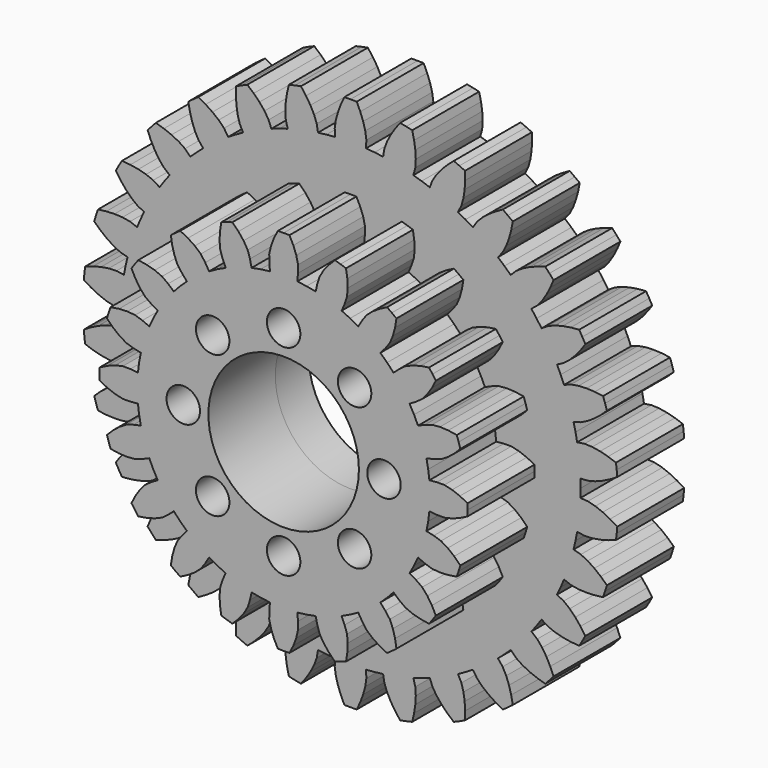
from build123d import *

# Parameters (mm, degrees)
F1_DEPTH = 5
F2_R     = 4.5
F2_R_2   = 1
F3_DEPTH = 5
F5_DEPTH = 5
F6_R     = 1
F6_R_2   = 4.5
F7_DEPTH = 5
F8_R     = 9
F9_DEPTH = 2.5


with BuildPart() as f1:
    # F0 (on Front) → F1 (new body)
    with BuildSketch(Plane.XZ):
        Polygon((8.537735, -1.915615), (8.642273, -1.368802), (8.711826, -0.816447), (9.159863, -0.858436), (9.611526, -0.860858), (10.071783, -0.754446), (10.534056, -0.579793), (10.994513, -0.347382), (11, 0), (10.994513, 0.347382), (10.534056, 0.579793), (10.071783, 0.754446), (9.611526, 0.860858), (9.159863, 0.858436), (8.711826, 0.816447), (8.642273, 1.368802), (8.537735, 1.915615), (8.976819, 2.014132), (9.407124, 2.1514), (9.811972, 2.394831), (10.197649, 2.703786), (10.563751, 3.067111), (10.461622, 3.399187), (10.349057, 3.727872), (9.839317, 3.806619), (9.345698, 3.829873), (8.875084, 3.78885), (8.446276, 3.646975), (8.033143, 3.46859), (7.796307, 3.972417), (7.527911, 4.460163), (7.915061, 4.689543), (8.281887, 4.953064), (8.591696, 5.309685), (8.863024, 5.7227), (9.098934, 6.181375), (8.899187, 6.465638), (8.690562, 6.743451), (8.181436, 6.660826), (7.704791, 6.530405), (7.269888, 6.345962), (6.905909, 6.078522), (6.56812, 5.781203), (6.187184, 6.187184), (5.781203, 6.56812), (6.078522, 6.905909), (6.345962, 7.269888), (6.530405, 7.704791), (6.660826, 8.181436), (6.743451, 8.690562), (6.465638, 8.899187), (6.181375, 9.098934), (5.7227, 8.863024), (5.309685, 8.591696), (4.953064, 8.281887), (4.689543, 7.915061), (4.460163, 7.527911), (3.972417, 7.796307), (3.46859, 8.033143), (3.646975, 8.446276), (3.78885, 8.875084), (3.829873, 9.345698), (3.806619, 9.839317), (3.727872, 10.349057), (3.399187, 10.461622), (3.067111, 10.563751), (2.703786, 10.197649), (2.394831, 9.811972), (2.1514, 9.407124), (2.014132, 8.976819), (1.915615, 8.537735), (1.368802, 8.642273), (0.816447, 8.711826), (0.858436, 9.159863), (0.860858, 9.611526), (0.754446, 10.071783), (0.579793, 10.534056), (0.347382, 10.994513), (0, 11), (-0.347382, 10.994513), (-0.579793, 10.534056), (-0.754446, 10.071783), (-0.860858, 9.611526), (-0.858436, 9.159863), (-0.816447, 8.711826), (-1.368802, 8.642273), (-1.915615, 8.537735), (-2.014132, 8.976819), (-2.1514, 9.407124), (-2.394831, 9.811972), (-2.703786, 10.197649), (-3.067111, 10.563751), (-3.399187, 10.461622), (-3.727872, 10.349057), (-3.806619, 9.839317), (-3.829873, 9.345698), (-3.78885, 8.875084), (-3.646975, 8.446276), (-3.46859, 8.033143), (-3.972417, 7.796307), (-4.460163, 7.527911), (-4.689543, 7.915061), (-4.953064, 8.281887), (-5.309685, 8.591696), (-5.7227, 8.863024), (-6.181375, 9.098934), (-6.465638, 8.899187), (-6.743451, 8.690562), (-6.660826, 8.181436), (-6.530405, 7.704791), (-6.345962, 7.269888), (-6.078522, 6.905909), (-5.781203, 6.56812), (-6.187184, 6.187184), (-6.56812, 5.781203), (-6.905909, 6.078522), (-7.269888, 6.345962), (-7.704791, 6.530405), (-8.181436, 6.660826), (-8.690562, 6.743451), (-8.899187, 6.465638), (-9.098934, 6.181375), (-8.863024, 5.7227), (-8.591696, 5.309685), (-8.281887, 4.953064), (-7.915061, 4.689543), (-7.527911, 4.460163), (-7.796307, 3.972417), (-8.033143, 3.46859), (-8.446276, 3.646975), (-8.875084, 3.78885), (-9.345698, 3.829873), (-9.839317, 3.806619), (-10.349057, 3.727872), (-10.461622, 3.399187), (-10.563751, 3.067111), (-10.197649, 2.703786), (-9.811972, 2.394831), (-9.407124, 2.1514), (-8.976819, 2.014132), (-8.537735, 1.915615), (-8.642273, 1.368802), (-8.711826, 0.816447), (-9.159863, 0.858436), (-9.611526, 0.860858), (-10.071783, 0.754446), (-10.534056, 0.579793), (-10.994513, 0.347382), (-11, 0), (-10.994513, -0.347382), (-10.534056, -0.579793), (-10.071783, -0.754446), (-9.611526, -0.860858), (-9.159863, -0.858436), (-8.711826, -0.816447), (-8.642273, -1.368802), (-8.537735, -1.915615), (-8.976819, -2.014132), (-9.407124, -2.1514), (-9.811972, -2.394831), (-10.197649, -2.703786), (-10.563751, -3.067111), (-10.461622, -3.399187), (-10.349057, -3.727872), (-9.839317, -3.806619), (-9.345698, -3.829873), (-8.875084, -3.78885), (-8.446276, -3.646975), (-8.033143, -3.46859), (-7.796307, -3.972417), (-7.527911, -4.460163), (-7.915061, -4.689543), (-8.281887, -4.953064), (-8.591696, -5.309685), (-8.863024, -5.7227), (-9.098934, -6.181375), (-8.899187, -6.465638), (-8.690562, -6.743451), (-8.181436, -6.660826), (-7.704791, -6.530405), (-7.269888, -6.345962), (-6.905909, -6.078522), (-6.56812, -5.781203), (-6.187184, -6.187184), (-5.781203, -6.56812), (-6.078522, -6.905909), (-6.345962, -7.269888), (-6.530405, -7.704791), (-6.660826, -8.181436), (-6.743451, -8.690562), (-6.465638, -8.899187), (-6.181375, -9.098934), (-5.7227, -8.863024), (-5.309685, -8.591696), (-4.953064, -8.281887), (-4.689543, -7.915061), (-4.460163, -7.527911), (-3.972417, -7.796307), (-3.46859, -8.033143), (-3.646975, -8.446276), (-3.78885, -8.875084), (-3.829873, -9.345698), (-3.806619, -9.839317), (-3.727872, -10.349057), (-3.399187, -10.461622), (-3.067111, -10.563751), (-2.703786, -10.197649), (-2.394831, -9.811972), (-2.1514, -9.407124), (-2.014132, -8.976819), (-1.915615, -8.537735), (-1.368802, -8.642273), (-0.816447, -8.711826), (-0.858436, -9.159863), (-0.860858, -9.611526), (-0.754446, -10.071783), (-0.579793, -10.534056), (-0.347382, -10.994513), (0, -11), (0.347382, -10.994513), (0.579793, -10.534056), (0.754446, -10.071783), (0.860858, -9.611526), (0.858436, -9.159863), (0.816447, -8.711826), (1.368802, -8.642273), (1.915615, -8.537735), (2.014132, -8.976819), (2.1514, -9.407124), (2.394831, -9.811972), (2.703786, -10.197649), (3.067111, -10.563751), (3.399187, -10.461622), (3.727872, -10.349057), (3.806619, -9.839317), (3.829873, -9.345698), (3.78885, -8.875084), (3.646975, -8.446276), (3.46859, -8.033143), (3.972417, -7.796307), (4.460163, -7.527911), (4.689543, -7.915061), (4.953064, -8.281887), (5.309685, -8.591696), (5.7227, -8.863024), (6.181375, -9.098934), (6.465638, -8.899187), (6.743451, -8.690562), (6.660826, -8.181436), (6.530405, -7.704791), (6.345962, -7.269888), (6.078522, -6.905909), (5.781203, -6.56812), (6.187184, -6.187184), (6.56812, -5.781203), (6.905909, -6.078522), (7.269888, -6.345962), (7.704791, -6.530405), (8.181436, -6.660826), (8.690562, -6.743451), (8.899187, -6.465638), (9.098934, -6.181375), (8.863024, -5.7227), (8.591696, -5.309685), (8.281887, -4.953064), (7.915061, -4.689543), (7.527911, -4.460163), (7.796307, -3.972417), (8.033143, -3.46859), (8.446276, -3.646975), (8.875084, -3.78885), (9.345698, -3.829873), (9.839317, -3.806619), (10.349057, -3.727872), (10.461622, -3.399187), (10.563751, -3.067111), (10.197649, -2.703786), (9.811972, -2.394831), (9.407124, -2.1514), (8.976819, -2.014132), align=None)
    extrude(amount=F1_DEPTH)

    # F2 (on face) → F3 (cut, through all)
    with BuildSketch(Plane.XZ.offset(5)):
        Circle(F2_R)
        with Locations((0, 6)):
            Circle(F2_R_2)
        with Locations((-4.242641, 4.242641)):
            Circle(F2_R_2)
        with Locations((-6, 0)):
            Circle(F2_R_2)
        with Locations((-4.242641, -4.242641)):
            Circle(F2_R_2)
        with Locations((0, -6)):
            Circle(F2_R_2)
        with Locations((4.242641, -4.242641)):
            Circle(F2_R_2)
        with Locations((6, 0)):
            Circle(F2_R_2)
        with Locations((4.242641, 4.242641)):
            Circle(F2_R_2)
    extrude(amount=-F3_DEPTH, mode=Mode.SUBTRACT)


with BuildPart() as f5:
    # F4 (on Front) → F5 (new body)
    with BuildSketch(Plane.XZ):
        Polygon((13.740356, -0.514893), (13.75, 0), (13.740356, 0.514893), (14.189718, 0.540269), (14.635375, 0.654449), (15.077295, 0.82776), (15.514741, 1.046573), (15.946662, 1.305364), (15.91235, 1.672455), (15.869589, 2.038659), (15.393301, 2.201993), (14.919921, 2.325075), (14.451624, 2.402718), (13.991967, 2.421746), (13.547149, 2.35314), (13.44953, 2.858786), (13.333044, 3.360422), (13.767311, 3.478671), (14.179489, 3.683013), (14.575719, 3.944417), (14.958112, 4.249399), (15.326789, 4.592336), (15.216904, 4.944272), (15.09894, 5.293583), (14.599101, 5.354321), (14.110474, 5.376292), (13.636268, 5.354875), (13.1827, 5.277918), (12.761866, 5.118328), (12.56125, 5.592629), (12.343014, 6.059084), (12.743206, 6.265039), (13.103892, 6.550612), (13.437114, 6.888684), (13.747741, 7.266506), (14.037061, 7.678601), (13.856406, 8), (13.668394, 8.317151), (13.166849, 8.27264), (12.684333, 8.19254), (12.224942, 8.072997), (11.797285, 7.903421), (11.418828, 7.659822), (11.123984, 8.082047), (10.813535, 8.492936), (11.162161, 8.777594), (11.455592, 9.131918), (11.711243, 9.531883), (11.936529, 9.966032), (12.133847, 10.429274), (11.890317, 10.70609), (11.640474, 10.977221), (11.159144, 10.829405), (10.703825, 10.650734), (10.279327, 10.438292), (9.896273, 10.183505), (9.576733, 9.866544), (9.200546, 10.218241), (8.811453, 10.555605), (9.093277, 10.906526), (9.306627, 11.314115), (9.473534, 11.758493), (9.603632, 12.229994), (9.700325, 12.724138), (9.404564, 12.944272), (9.103809, 13.157532), (8.66373, 12.912873), (8.255508, 12.64344), (7.884457, 12.347382), (7.562746, 12.018522), (7.316088, 11.642051), (6.875, 11.907849), (6.424268, 12.156944), (6.626973, 12.558791), (6.750918, 13.001831), (6.821786, 13.4712), (6.851011, 13.959446), (6.842853, 14.462896), (6.507786, 14.616727), (6.169264, 14.762797), (5.789669, 14.431986), (5.446387, 14.083567), (5.144997, 13.716833), (4.89869, 13.328272), (4.735696, 12.908745), (4.248984, 13.077027), (3.756312, 13.226966), (3.871038, 13.662176), (3.900162, 14.121304), (3.871894, 14.595151), (3.798968, 15.078804), (3.686315, 15.569556), (3.326587, 15.650362), (2.965093, 15.722857), (2.662572, 15.320353), (2.399232, 14.908175), (2.180677, 14.486792), (2.020539, 14.055512), (1.94833, 13.611264), (1.437266, 13.674676), (0.924186, 13.718906), (0.94592, 14.168459), (0.87895, 14.623609), (0.752781, 15.081224), (0.580892, 15.539146), (0.368667, 15.995752), (0, 16), (-0.368667, 15.995752), (-0.580892, 15.539146), (-0.752781, 15.081224), (-0.87895, 14.623609), (-0.94592, 14.168459), (-0.924186, 13.718906), (-1.437266, 13.674676), (-1.94833, 13.611264), (-2.020539, 14.055512), (-2.180677, 14.486792), (-2.399232, 14.908175), (-2.662572, 15.320353), (-2.965093, 15.722857), (-3.326587, 15.650362), (-3.686315, 15.569556), (-3.798968, 15.078804), (-3.871894, 14.595151), (-3.900162, 14.121304), (-3.871038, 13.662176), (-3.756312, 13.226966), (-4.248984, 13.077027), (-4.735696, 12.908745), (-4.89869, 13.328272), (-5.144997, 13.716833), (-5.446387, 14.083567), (-5.789669, 14.431986), (-6.169264, 14.762797), (-6.507786, 14.616727), (-6.842853, 14.462896), (-6.851011, 13.959446), (-6.821786, 13.4712), (-6.750918, 13.001831), (-6.626973, 12.558791), (-6.424268, 12.156944), (-6.875, 11.907849), (-7.316088, 11.642051), (-7.562746, 12.018522), (-7.884457, 12.347382), (-8.255508, 12.64344), (-8.66373, 12.912873), (-9.103809, 13.157532), (-9.404564, 12.944272), (-9.700325, 12.724138), (-9.603632, 12.229994), (-9.473534, 11.758493), (-9.306627, 11.314115), (-9.093277, 10.906526), (-8.811453, 10.555605), (-9.200546, 10.218241), (-9.576733, 9.866544), (-9.896273, 10.183505), (-10.279327, 10.438292), (-10.703825, 10.650734), (-11.159144, 10.829405), (-11.640474, 10.977221), (-11.890317, 10.70609), (-12.133847, 10.429274), (-11.936529, 9.966032), (-11.711243, 9.531883), (-11.455592, 9.131918), (-11.162161, 8.777594), (-10.813535, 8.492936), (-11.123984, 8.082047), (-11.418828, 7.659822), (-11.797285, 7.903421), (-12.224942, 8.072997), (-12.684333, 8.19254), (-13.166849, 8.27264), (-13.668394, 8.317151), (-13.856406, 8), (-14.037061, 7.678601), (-13.747741, 7.266506), (-13.437114, 6.888684), (-13.103892, 6.550612), (-12.743206, 6.265039), (-12.343014, 6.059084), (-12.56125, 5.592629), (-12.761866, 5.118328), (-13.1827, 5.277918), (-13.636268, 5.354875), (-14.110474, 5.376292), (-14.599101, 5.354321), (-15.09894, 5.293583), (-15.216904, 4.944272), (-15.326789, 4.592336), (-14.958112, 4.249399), (-14.575719, 3.944417), (-14.179489, 3.683013), (-13.767311, 3.478671), (-13.333044, 3.360422), (-13.44953, 2.858786), (-13.547149, 2.35314), (-13.991967, 2.421746), (-14.451624, 2.402718), (-14.919921, 2.325075), (-15.393301, 2.201993), (-15.869589, 2.038659), (-15.91235, 1.672455), (-15.946662, 1.305364), (-15.514741, 1.046573), (-15.077295, 0.82776), (-14.635375, 0.654449), (-14.189718, 0.540269), (-13.740356, 0.514893), (-13.75, 0), (-13.740356, -0.514893), (-14.189718, -0.540269), (-14.635375, -0.654449), (-15.077295, -0.82776), (-15.514741, -1.046573), (-15.946662, -1.305364), (-15.91235, -1.672455), (-15.869589, -2.038659), (-15.393301, -2.201993), (-14.919921, -2.325075), (-14.451624, -2.402718), (-13.991967, -2.421746), (-13.547149, -2.35314), (-13.44953, -2.858786), (-13.333044, -3.360422), (-13.767311, -3.478671), (-14.179489, -3.683013), (-14.575719, -3.944417), (-14.958112, -4.249399), (-15.326789, -4.592336), (-15.216904, -4.944272), (-15.09894, -5.293583), (-14.599101, -5.354321), (-14.110474, -5.376292), (-13.636268, -5.354875), (-13.1827, -5.277918), (-12.761866, -5.118328), (-12.56125, -5.592629), (-12.343014, -6.059084), (-12.743206, -6.265039), (-13.103892, -6.550612), (-13.437114, -6.888684), (-13.747741, -7.266506), (-14.037061, -7.678601), (-13.856406, -8), (-13.668394, -8.317151), (-13.166849, -8.27264), (-12.684333, -8.19254), (-12.224942, -8.072997), (-11.797285, -7.903421), (-11.418828, -7.659822), (-11.123984, -8.082047), (-10.813535, -8.492936), (-11.162161, -8.777594), (-11.455592, -9.131918), (-11.711243, -9.531883), (-11.936529, -9.966032), (-12.133847, -10.429274), (-11.890317, -10.70609), (-11.640474, -10.977221), (-11.159144, -10.829405), (-10.703825, -10.650734), (-10.279327, -10.438292), (-9.896273, -10.183505), (-9.576733, -9.866544), (-9.200546, -10.218241), (-8.811453, -10.555605), (-9.093277, -10.906526), (-9.306627, -11.314115), (-9.473534, -11.758493), (-9.603632, -12.229994), (-9.700325, -12.724138), (-9.404564, -12.944272), (-9.103809, -13.157532), (-8.66373, -12.912873), (-8.255508, -12.64344), (-7.884457, -12.347382), (-7.562746, -12.018522), (-7.316088, -11.642051), (-6.875, -11.907849), (-6.424268, -12.156944), (-6.626973, -12.558791), (-6.750918, -13.001831), (-6.821786, -13.4712), (-6.851011, -13.959446), (-6.842853, -14.462896), (-6.507786, -14.616727), (-6.169264, -14.762797), (-5.789669, -14.431986), (-5.446387, -14.083567), (-5.144997, -13.716833), (-4.89869, -13.328272), (-4.735696, -12.908745), (-4.248984, -13.077027), (-3.756312, -13.226966), (-3.871038, -13.662176), (-3.900162, -14.121304), (-3.871894, -14.595151), (-3.798968, -15.078804), (-3.686315, -15.569556), (-3.326587, -15.650362), (-2.965093, -15.722857), (-2.662572, -15.320353), (-2.399232, -14.908175), (-2.180677, -14.486792), (-2.020539, -14.055512), (-1.94833, -13.611264), (-1.437266, -13.674676), (-0.924186, -13.718906), (-0.94592, -14.168459), (-0.87895, -14.623609), (-0.752781, -15.081224), (-0.580892, -15.539146), (-0.368667, -15.995752), (0, -16), (0.368667, -15.995752), (0.580892, -15.539146), (0.752781, -15.081224), (0.87895, -14.623609), (0.94592, -14.168459), (0.924186, -13.718906), (1.437266, -13.674676), (1.94833, -13.611264), (2.020539, -14.055512), (2.180677, -14.486792), (2.399232, -14.908175), (2.662572, -15.320353), (2.965093, -15.722857), (3.326587, -15.650362), (3.686315, -15.569556), (3.798968, -15.078804), (3.871894, -14.595151), (3.900162, -14.121304), (3.871038, -13.662176), (3.756312, -13.226966), (4.248984, -13.077027), (4.735696, -12.908745), (4.89869, -13.328272), (5.144997, -13.716833), (5.446387, -14.083567), (5.789669, -14.431986), (6.169264, -14.762797), (6.507786, -14.616727), (6.842853, -14.462896), (6.851011, -13.959446), (6.821786, -13.4712), (6.750918, -13.001831), (6.626973, -12.558791), (6.424268, -12.156944), (6.875, -11.907849), (7.316088, -11.642051), (7.562746, -12.018522), (7.884457, -12.347382), (8.255508, -12.64344), (8.66373, -12.912873), (9.103809, -13.157532), (9.404564, -12.944272), (9.700325, -12.724138), (9.603632, -12.229994), (9.473534, -11.758493), (9.306627, -11.314115), (9.093277, -10.906526), (8.811453, -10.555605), (9.200546, -10.218241), (9.576733, -9.866544), (9.896273, -10.183505), (10.279327, -10.438292), (10.703825, -10.650734), (11.159144, -10.829405), (11.640474, -10.977221), (11.890317, -10.70609), (12.133847, -10.429274), (11.936529, -9.966032), (11.711243, -9.531883), (11.455592, -9.131918), (11.162161, -8.777594), (10.813535, -8.492936), (11.123984, -8.082047), (11.418828, -7.659822), (11.797285, -7.903421), (12.224942, -8.072997), (12.684333, -8.19254), (13.166849, -8.27264), (13.668394, -8.317151), (13.856406, -8), (14.037061, -7.678601), (13.747741, -7.266506), (13.437114, -6.888684), (13.103892, -6.550612), (12.743206, -6.265039), (12.343014, -6.059084), (12.56125, -5.592629), (12.761866, -5.118328), (13.1827, -5.277918), (13.636268, -5.354875), (14.110474, -5.376292), (14.599101, -5.354321), (15.09894, -5.293583), (15.216904, -4.944272), (15.326789, -4.592336), (14.958112, -4.249399), (14.575719, -3.944417), (14.179489, -3.683013), (13.767311, -3.478671), (13.333044, -3.360422), (13.44953, -2.858786), (13.547149, -2.35314), (13.991967, -2.421746), (14.451624, -2.402718), (14.919921, -2.325075), (15.393301, -2.201993), (15.869589, -2.038659), (15.91235, -1.672455), (15.946662, -1.305364), (15.514741, -1.046573), (15.077295, -0.82776), (14.635375, -0.654449), (14.189718, -0.540269), align=None)
    extrude(amount=-F5_DEPTH)

    # F6 (on face) → F7 (cut, through all)
    with BuildSketch(Plane.XZ):
        with Locations((0, 6)):
            Circle(F6_R)
        with Locations((4.242641, 4.242641)):
            Circle(F6_R)
        with Locations((6, 0)):
            Circle(F6_R)
        with Locations((-4.242641, 4.242641)):
            Circle(F6_R)
        with Locations((-6, 0)):
            Circle(F6_R)
        Circle(F6_R_2)
        with Locations((-4.242641, -4.242641)):
            Circle(F6_R)
        with Locations((0, -6)):
            Circle(F6_R)
        with Locations((4.242641, -4.242641)):
            Circle(F6_R)
    extrude(amount=-F7_DEPTH, mode=Mode.SUBTRACT)

    # F8 (on face) → F9 (cut)
    with BuildSketch(Plane(origin=(0, 5, 0), x_dir=(-1, 0, 0), z_dir=(0, 1, 0))):
        Circle(F8_R)
    extrude(amount=-F9_DEPTH, mode=Mode.SUBTRACT)


solid = Compound([f1.part, f5.part])
